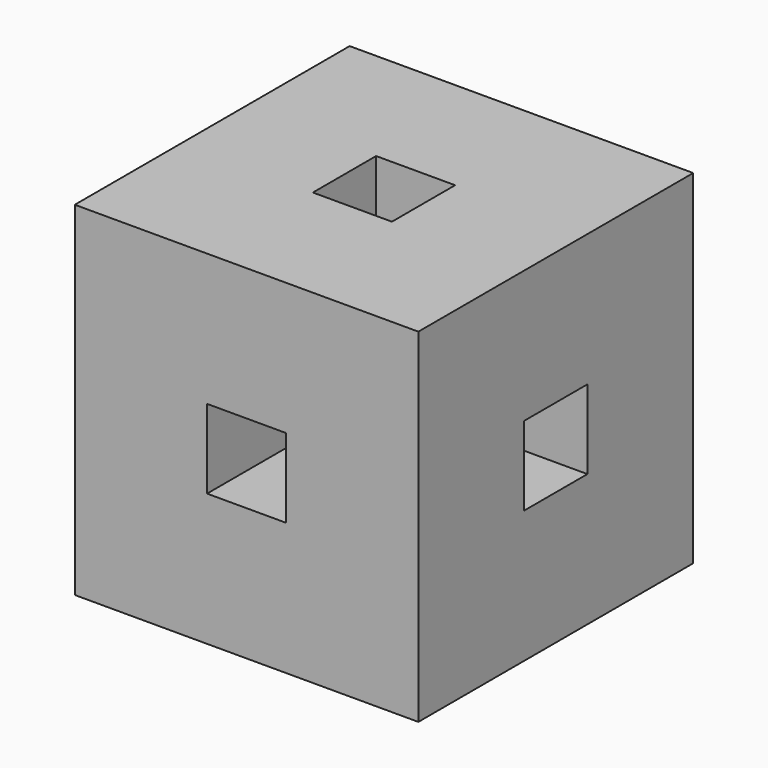
from build123d import *

# Parameters (mm, degrees)
F0_W     = 10
F0_H     = 10
F1_DEPTH = 10
F2_W     = 2.3
F2_H     = 2.3
F5_DEPTH = 10.001
F3_W     = 2.3
F3_H     = 2.3
F6_DEPTH = 10.001
F4_W     = 2.3
F4_H     = 2.3
F7_DEPTH = 10.001


with BuildPart() as f1:
    # F0 (on Top) → F1 (new body)
    with BuildSketch(Plane.XY):
        with Locations((-7.52488, 7.208158)):
            Rectangle(F0_W, F0_H)
    extrude(amount=F1_DEPTH)

    # F2 (on face) → F5 (cut, through all)
    with BuildSketch(Plane.XY.offset(10)):
        with Locations((-7.52488, 7.208158)):
            Rectangle(F2_W, F2_H)
    extrude(amount=-F5_DEPTH, mode=Mode.SUBTRACT)

    # F3 (on face) → F6 (cut, through all)
    with BuildSketch(Plane.XZ.offset(-2.208158)):
        with Locations((-7.52488, 5)):
            Rectangle(F3_W, F3_H)
    extrude(amount=-F6_DEPTH, mode=Mode.SUBTRACT)

    # F4 (on face) → F7 (cut, through all)
    with BuildSketch(Plane.YZ.offset(-2.52488)):
        with Locations((7.208158, 5)):
            Rectangle(F4_W, F4_H)
    extrude(amount=-F7_DEPTH, mode=Mode.SUBTRACT)


solid = f1.part
